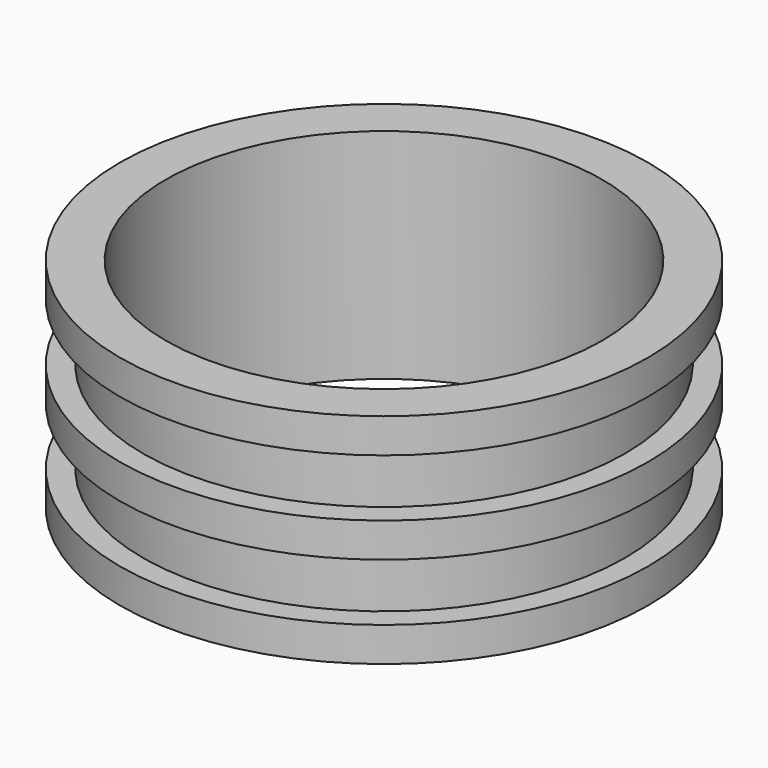
from build123d import *

# Parameters (mm, degrees)
F3_R     = 19
F4_DEPTH = 23


with BuildPart() as f1:
    # F0 (on Front) → F1 (revolve)
    with BuildSketch(Plane.XZ):
        Polygon((23, 26.938567), (0, 26.938567), (0, 7.938567), (23, 7.938567), (23, 10.938567), (21, 10.938567), (21, 15.938567), (23, 15.938567), (23, 18.938567), (21, 18.938567), (21, 23.938567), (23, 23.938567), align=None)
    revolve(axis=Axis((0, 0, 17.438567), (0, 0, -1)))

    # F3 (on face) → F4 (cut)
    with BuildSketch(Plane(origin=(0, 0, 7.938567), x_dir=(1, 0, 0), z_dir=(0, 0, -1))):
        Circle(F3_R)
    extrude(amount=-F4_DEPTH, mode=Mode.SUBTRACT)


solid = f1.part
